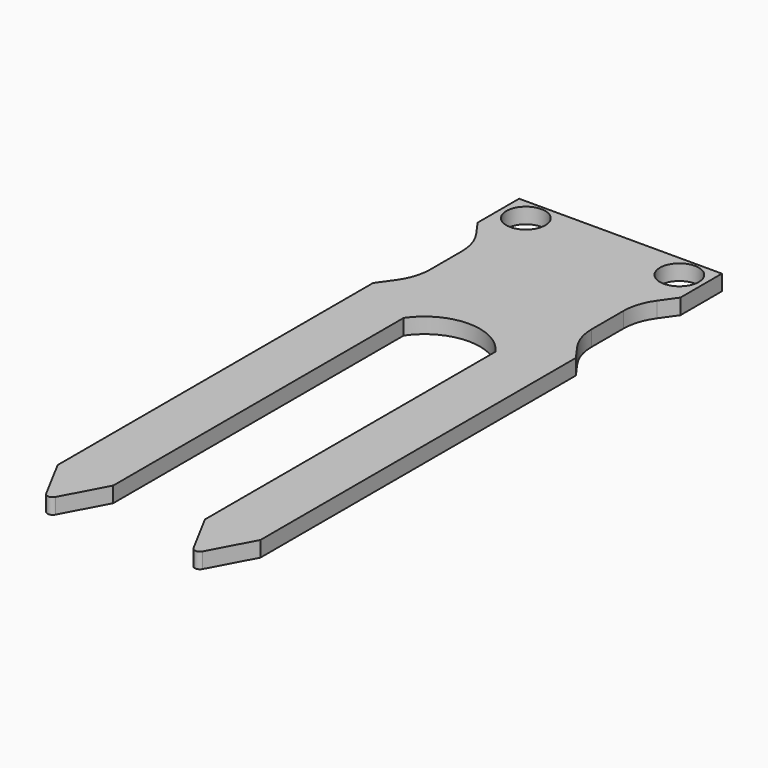
from build123d import *

# Parameters (mm, degrees)
F0_R     = 1.875
F1_DEPTH = 1.5
F2_R     = 0.5


with BuildPart() as f1:
    # F0 (on Top) → F1 (new body)
    with BuildSketch(Plane.XY):
        with BuildLine():
            Line((18.327847, 2.114304), (21.005478, 7.114304))
            Line((21.005478, 7.114304), (21.005478, 42.114304))
            Line((21.005478, 42.114304), (21.005478, 45.114304))
            Line((21.005478, 45.114304), (19.939652, 46.61327))
            ThreePointArc((19.939652, 46.61327), (19.251447, 47.989936), (19.014563, 49.510699))
            Line((19.014563, 49.510699), (19.014563, 53.317909))
            ThreePointArc((19.014563, 53.317909), (19.251447, 54.838672), (19.939652, 56.215338))
            Line((19.939652, 56.215338), (21.005478, 57.714304))
            Line((21.005478, 57.714304), (21.005478, 62.714304))
            Line((21.005478, 62.714304), (1.455478, 62.714304))
            Line((1.455478, 62.714304), (1.455478, 57.714304))
            Line((1.455478, 57.714304), (2.521305, 56.215338))
            ThreePointArc((2.521305, 56.215338), (3.20951, 54.838672), (3.446393, 53.317909))
            Line((3.446393, 53.317909), (3.446393, 49.510699))
            ThreePointArc((3.446393, 49.510699), (3.20951, 47.989936), (2.521305, 46.61327))
            Line((2.521305, 46.61327), (1.455478, 45.114304))
            Line((1.455478, 45.114304), (1.455478, 42.114304))
            Line((1.455478, 42.114304), (1.455478, 7.114304))
            Line((1.455478, 7.114304), (4.13311, 2.114304))
            Line((4.13311, 2.114304), (6.810739, 7.114304))
            Line((6.810739, 7.114304), (6.810739, 42.114304))
            ThreePointArc((6.810739, 42.114304), (11.230478, 44.44219), (15.650218, 42.114304))
            Line((15.650218, 42.114304), (15.650218, 7.114304))
            Line((15.650218, 7.114304), (18.327847, 2.114304))
        make_face()
        with Locations((3.830478, 60.557045)):
            Circle(F0_R, mode=Mode.SUBTRACT)
        with Locations((18.630478, 60.557045)):
            Circle(F0_R, mode=Mode.SUBTRACT)
    extrude(amount=F1_DEPTH)

    # F2
    f2_edges = [f1.edges().sort_by_distance(p)[0] for p in [
        (18.327847, 2.114304, 0.75),
        (4.13311, 2.114304, 0.75),
    ]]
    fillet(f2_edges, radius=F2_R)


solid = f1.part
